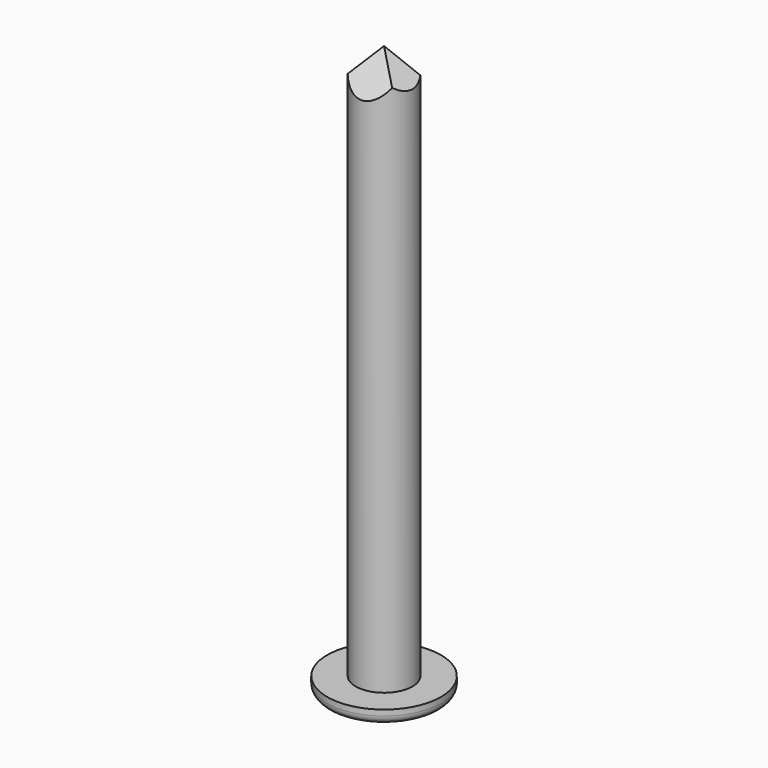
from build123d import *

# Parameters (mm, degrees)
F0_R          = 0.5
F1_DEPTH      = 10
F0_R_2        = 1
F2_DEPTH      = 0.25
F3_R          = 0.15
F5_DEPTH      = 25
F5_DEPTH_BACK = 25
F7_DEPTH      = 25
F7_DEPTH_BACK = 25


with BuildPart() as f1:
    # F0 (on Top) → F1 (new body)
    with BuildSketch(Plane.XY):
        Circle(F0_R)
    extrude(amount=F1_DEPTH)

    # F0 (on Top) → F2 (join)
    with BuildSketch(Plane.XY):
        Circle(F0_R_2)
        Circle(F0_R, mode=Mode.SUBTRACT)
    extrude(amount=F2_DEPTH)

    # F3
    f3_edges = [f1.edges().sort_by_distance(p)[0] for p in [
        (-1, 0, 0),
    ]]
    fillet(f3_edges, radius=F3_R)

    # F4 (on Right) → F5 (cut, two sides)
    with BuildSketch(Plane.YZ) as f5_sk:
        Polygon((-0.642256, 9.187694), (0, 10.003787), (0.555127, 9.12749), (0.555127, 10.278048), (-0.642256, 10.278048), align=None)
    extrude(amount=F5_DEPTH, mode=Mode.SUBTRACT)
    extrude(f5_sk.sketch, amount=-F5_DEPTH_BACK, mode=Mode.SUBTRACT)

    # F6 (on Front) → F7 (cut, two sides)
    with BuildSketch(Plane.XZ) as f7_sk:
        Polygon((-0.578698, 9.359916), (0, 10.00354), (0.59532, 9.401632), (0.59532, 10.164445), (-0.578698, 10.164445), align=None)
    extrude(amount=F7_DEPTH, mode=Mode.SUBTRACT)
    extrude(f7_sk.sketch, amount=-F7_DEPTH_BACK, mode=Mode.SUBTRACT)


solid = f1.part
